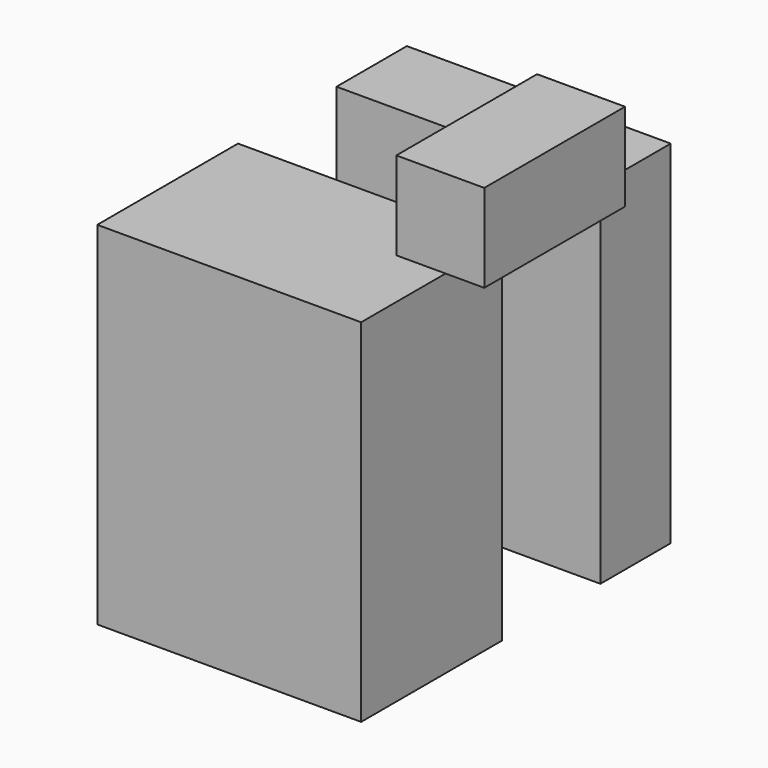
from build123d import *

# Parameters (mm, degrees)
BOX012_W                  = 10
BOX012_H                  = 10
BOX012_DEPTH              = 10
BOX011_W                  = 10
BOX011_H                  = 10
BOX011_DEPTH              = 10
BOX010_W                  = 10
BOX010_H                  = 10
BOX010_DEPTH              = 10
BOX018_W                  = 10
BOX018_H                  = 10
BOX018_DEPTH              = 10
BOX017_W                  = 10
BOX017_H                  = 10
BOX017_DEPTH              = 10
BOX016_W                  = 10
BOX016_H                  = 10
BOX016_DEPTH              = 10
BOX015_W                  = 10
BOX015_H                  = 10
BOX015_DEPTH              = 10
BOX014_W                  = 10
BOX014_H                  = 10
BOX014_DEPTH              = 10
BOX013_W                  = 10
BOX013_H                  = 10
BOX013_DEPTH              = 10
BOX008_W                  = 10
BOX008_H                  = 10
BOX008_DEPTH              = 10
BOX009_W                  = 10
BOX009_H                  = 10
BOX009_DEPTH              = 10
BOX007_W                  = 10
BOX007_H                  = 10
BOX007_DEPTH              = 10
BOX020_W                  = 10
BOX020_H                  = 10
BOX020_DEPTH              = 10
BOX019_W                  = 10
BOX019_H                  = 10
BOX019_DEPTH              = 10
FUSION007_PITCH_ANGLE     = 90
FUSION007_PLACEMENT_ANGLE = -90
BOX024_W                  = 10
BOX024_H                  = 10
BOX024_DEPTH              = 10
BOX026_W                  = 10
BOX026_H                  = 10
BOX026_DEPTH              = 10
BOX023_W                  = 10
BOX023_H                  = 10
BOX023_DEPTH              = 10
BOX032_W                  = 10
BOX032_H                  = 10
BOX032_DEPTH              = 10
BOX030_W                  = 10
BOX030_H                  = 10
BOX030_DEPTH              = 10
BOX031_W                  = 10
BOX031_H                  = 10
BOX031_DEPTH              = 10
BOX029_W                  = 10
BOX029_H                  = 10
BOX029_DEPTH              = 10
BOX027_W                  = 10
BOX027_H                  = 10
BOX027_DEPTH              = 10
BOX028_W                  = 10
BOX028_H                  = 10
BOX028_DEPTH              = 10
BOX025_W                  = 10
BOX025_H                  = 10
BOX025_DEPTH              = 10
BOX021_W                  = 10
BOX021_H                  = 10
BOX021_DEPTH              = 10
BOX022_W                  = 10
BOX022_H                  = 10
BOX022_DEPTH              = 10
BOX044_W                  = 10
BOX044_H                  = 10
BOX044_DEPTH              = 10
BOX037_W                  = 10
BOX037_H                  = 10
BOX037_DEPTH              = 10
BOX035_W                  = 10
BOX035_H                  = 10
BOX035_DEPTH              = 10
BOX039_W                  = 10
BOX039_H                  = 10
BOX039_DEPTH              = 10
BOX042_W                  = 10
BOX042_H                  = 10
BOX042_DEPTH              = 10
BOX036_W                  = 10
BOX036_H                  = 10
BOX036_DEPTH              = 10
BOX034_W                  = 10
BOX034_H                  = 10
BOX034_DEPTH              = 10
BOX033_W                  = 10
BOX033_H                  = 10
BOX033_DEPTH              = 10
BOX040_W                  = 10
BOX040_H                  = 10
BOX040_DEPTH              = 10
BOX041_W                  = 10
BOX041_H                  = 10
BOX041_DEPTH              = 10
BOX043_W                  = 10
BOX043_H                  = 10
BOX043_DEPTH              = 10
BOX038_W                  = 10
BOX038_H                  = 10
BOX038_DEPTH              = 10


with BuildPart() as cube012:
    # Box012 → Box012 (new body)
    with BuildSketch(Plane(origin=(24, 0, 30), x_dir=(1, 0, 0), z_dir=(0, 0, 1))):
        with Locations((5, 5)):
            Rectangle(BOX012_W, BOX012_H)
    extrude(amount=BOX012_DEPTH)


with BuildPart() as cube011:
    # Box011 → Box011 (new body)
    with BuildSketch(Plane(origin=(34, 0, 30), x_dir=(1, 0, 0), z_dir=(0, 0, 1))):
        with Locations((5, 5)):
            Rectangle(BOX011_W, BOX011_H)
    extrude(amount=BOX011_DEPTH)


with BuildPart() as fusion003:
    # Box010 → Box010 (new body)
    with BuildSketch(Plane(origin=(14, 0, 30), x_dir=(1, 0, 0), z_dir=(0, 0, 1))):
        with Locations((5, 5)):
            Rectangle(BOX010_W, BOX010_H)
    extrude(amount=BOX010_DEPTH)

    # Fusion003: union Cube012, Cube011
    add(cube012.part)
    add(cube011.part)


with BuildPart() as fusion003_1:
    # Fusion003 placement: moved
    add(fusion003.part.moved(Location((0, 0, -10))))


with BuildPart() as cube018:
    # Box018 → Box018 (new body)
    with BuildSketch(Plane(origin=(24, 0, 30), x_dir=(1, 0, 0), z_dir=(0, 0, 1))):
        with Locations((5, 5)):
            Rectangle(BOX018_W, BOX018_H)
    extrude(amount=BOX018_DEPTH)


with BuildPart() as cube017:
    # Box017 → Box017 (new body)
    with BuildSketch(Plane(origin=(34, 0, 30), x_dir=(1, 0, 0), z_dir=(0, 0, 1))):
        with Locations((5, 5)):
            Rectangle(BOX017_W, BOX017_H)
    extrude(amount=BOX017_DEPTH)


with BuildPart() as fusion005:
    # Box016 → Box016 (new body)
    with BuildSketch(Plane(origin=(14, 0, 30), x_dir=(1, 0, 0), z_dir=(0, 0, 1))):
        with Locations((5, 5)):
            Rectangle(BOX016_W, BOX016_H)
    extrude(amount=BOX016_DEPTH)

    # Fusion005: union Cube018, Cube017
    add(cube018.part)
    add(cube017.part)


with BuildPart() as fusion005_1:
    # Fusion005 placement: moved
    add(fusion005.part.moved(Location((0, 0, -30))))


with BuildPart() as cube015:
    # Box015 → Box015 (new body)
    with BuildSketch(Plane(origin=(24, 0, 30), x_dir=(1, 0, 0), z_dir=(0, 0, 1))):
        with Locations((5, 5)):
            Rectangle(BOX015_W, BOX015_H)
    extrude(amount=BOX015_DEPTH)


with BuildPart() as cube014:
    # Box014 → Box014 (new body)
    with BuildSketch(Plane(origin=(34, 0, 30), x_dir=(1, 0, 0), z_dir=(0, 0, 1))):
        with Locations((5, 5)):
            Rectangle(BOX014_W, BOX014_H)
    extrude(amount=BOX014_DEPTH)


with BuildPart() as fusion004:
    # Box013 → Box013 (new body)
    with BuildSketch(Plane(origin=(14, 0, 30), x_dir=(1, 0, 0), z_dir=(0, 0, 1))):
        with Locations((5, 5)):
            Rectangle(BOX013_W, BOX013_H)
    extrude(amount=BOX013_DEPTH)

    # Fusion004: union Cube015, Cube014
    add(cube015.part)
    add(cube014.part)


with BuildPart() as fusion004_1:
    # Fusion004 placement: moved
    add(fusion004.part.moved(Location((0, 0, -20))))


with BuildPart() as cube008:
    # Box008 → Box008 (new body)
    with BuildSketch(Plane(origin=(24, 0, 30), x_dir=(1, 0, 0), z_dir=(0, 0, 1))):
        with Locations((5, 5)):
            Rectangle(BOX008_W, BOX008_H)
    extrude(amount=BOX008_DEPTH)


with BuildPart() as cube009:
    # Box009 → Box009 (new body)
    with BuildSketch(Plane(origin=(34, 0, 30), x_dir=(1, 0, 0), z_dir=(0, 0, 1))):
        with Locations((5, 5)):
            Rectangle(BOX009_W, BOX009_H)
    extrude(amount=BOX009_DEPTH)


with BuildPart() as mode12:
    # Box007 → Box007 (new body)
    with BuildSketch(Plane(origin=(14, 0, 30), x_dir=(1, 0, 0), z_dir=(0, 0, 1))):
        with Locations((5, 5)):
            Rectangle(BOX007_W, BOX007_H)
    extrude(amount=BOX007_DEPTH)

    # Fusion002: union Cube008, Cube009
    add(cube008.part)
    add(cube009.part)

    # Fusion006: union Fusion003, Fusion005, Fusion004
    add(fusion003_1.part)
    add(fusion005_1.part)
    add(fusion004_1.part)


with BuildPart() as mode12_1:
    # Fusion006 placement: moved
    add(mode12.part.moved(Location((0, 10, 0))))


with BuildPart() as cube020:
    # Box020 → Box020 (new body)
    with BuildSketch(Plane(origin=(28, 0, 0), x_dir=(1, 0, 0), z_dir=(0, 0, 1))):
        with Locations((5, 5)):
            Rectangle(BOX020_W, BOX020_H)
    extrude(amount=BOX020_DEPTH)


with BuildPart() as fusion007:
    # Box019 → Box019 (new body)
    with BuildSketch(Plane(origin=(28, 0, 10), x_dir=(1, 0, 0), z_dir=(0, 0, 1))):
        with Locations((5, 5)):
            Rectangle(BOX019_W, BOX019_H)
    extrude(amount=BOX019_DEPTH)

    # Fusion007: union Cube020
    add(cube020.part)


with BuildPart() as fusion007_1:
    # Fusion007 pitch: moved
    add(fusion007.part.rotate(Axis((0, 0, 0), (0, 1, 0)), FUSION007_PITCH_ANGLE))


with BuildPart() as fusion007_2:
    # Fusion007 placement: moved
    add(fusion007_1.part.moved(Location((48, -4, 86))).rotate(Axis((48, -4, 86), (0, 0, 1)), FUSION007_PLACEMENT_ANGLE))


with BuildPart() as cube024:
    # Box024 → Box024 (new body)
    with BuildSketch(Plane(origin=(24, 0, 30), x_dir=(1, 0, 0), z_dir=(0, 0, 1))):
        with Locations((5, 5)):
            Rectangle(BOX024_W, BOX024_H)
    extrude(amount=BOX024_DEPTH)


with BuildPart() as cube026:
    # Box026 → Box026 (new body)
    with BuildSketch(Plane(origin=(34, 0, 30), x_dir=(1, 0, 0), z_dir=(0, 0, 1))):
        with Locations((5, 5)):
            Rectangle(BOX026_W, BOX026_H)
    extrude(amount=BOX026_DEPTH)


with BuildPart() as fusion011:
    # Box023 → Box023 (new body)
    with BuildSketch(Plane(origin=(14, 0, 30), x_dir=(1, 0, 0), z_dir=(0, 0, 1))):
        with Locations((5, 5)):
            Rectangle(BOX023_W, BOX023_H)
    extrude(amount=BOX023_DEPTH)

    # Fusion011: union Cube024, Cube026
    add(cube024.part)
    add(cube026.part)


with BuildPart() as fusion011_1:
    # Fusion011 placement: moved
    add(fusion011.part.moved(Location((0, 0, -10))))


with BuildPart() as cube032:
    # Box032 → Box032 (new body)
    with BuildSketch(Plane(origin=(24, 0, 30), x_dir=(1, 0, 0), z_dir=(0, 0, 1))):
        with Locations((5, 5)):
            Rectangle(BOX032_W, BOX032_H)
    extrude(amount=BOX032_DEPTH)


with BuildPart() as cube030:
    # Box030 → Box030 (new body)
    with BuildSketch(Plane(origin=(34, 0, 30), x_dir=(1, 0, 0), z_dir=(0, 0, 1))):
        with Locations((5, 5)):
            Rectangle(BOX030_W, BOX030_H)
    extrude(amount=BOX030_DEPTH)


with BuildPart() as fusion009:
    # Box031 → Box031 (new body)
    with BuildSketch(Plane(origin=(14, 0, 30), x_dir=(1, 0, 0), z_dir=(0, 0, 1))):
        with Locations((5, 5)):
            Rectangle(BOX031_W, BOX031_H)
    extrude(amount=BOX031_DEPTH)

    # Fusion009: union Cube032, Cube030
    add(cube032.part)
    add(cube030.part)


with BuildPart() as fusion009_1:
    # Fusion009 placement: moved
    add(fusion009.part.moved(Location((0, 0, -30))))


with BuildPart() as cube029:
    # Box029 → Box029 (new body)
    with BuildSketch(Plane(origin=(24, 0, 30), x_dir=(1, 0, 0), z_dir=(0, 0, 1))):
        with Locations((5, 5)):
            Rectangle(BOX029_W, BOX029_H)
    extrude(amount=BOX029_DEPTH)


with BuildPart() as cube027:
    # Box027 → Box027 (new body)
    with BuildSketch(Plane(origin=(34, 0, 30), x_dir=(1, 0, 0), z_dir=(0, 0, 1))):
        with Locations((5, 5)):
            Rectangle(BOX027_W, BOX027_H)
    extrude(amount=BOX027_DEPTH)


with BuildPart() as fusion008:
    # Box028 → Box028 (new body)
    with BuildSketch(Plane(origin=(14, 0, 30), x_dir=(1, 0, 0), z_dir=(0, 0, 1))):
        with Locations((5, 5)):
            Rectangle(BOX028_W, BOX028_H)
    extrude(amount=BOX028_DEPTH)

    # Fusion008: union Cube029, Cube027
    add(cube029.part)
    add(cube027.part)


with BuildPart() as fusion008_1:
    # Fusion008 placement: moved
    add(fusion008.part.moved(Location((0, 0, -20))))


with BuildPart() as cube025:
    # Box025 → Box025 (new body)
    with BuildSketch(Plane(origin=(24, 0, 30), x_dir=(1, 0, 0), z_dir=(0, 0, 1))):
        with Locations((5, 5)):
            Rectangle(BOX025_W, BOX025_H)
    extrude(amount=BOX025_DEPTH)


with BuildPart() as cube021:
    # Box021 → Box021 (new body)
    with BuildSketch(Plane(origin=(34, 0, 30), x_dir=(1, 0, 0), z_dir=(0, 0, 1))):
        with Locations((5, 5)):
            Rectangle(BOX021_W, BOX021_H)
    extrude(amount=BOX021_DEPTH)


with BuildPart() as mode013:
    # Box022 → Box022 (new body)
    with BuildSketch(Plane(origin=(14, 0, 30), x_dir=(1, 0, 0), z_dir=(0, 0, 1))):
        with Locations((5, 5)):
            Rectangle(BOX022_W, BOX022_H)
    extrude(amount=BOX022_DEPTH)

    # Fusion012: union Cube025, Cube021
    add(cube025.part)
    add(cube021.part)

    # Fusion010: union Fusion011, Fusion009, Fusion008
    add(fusion011_1.part)
    add(fusion009_1.part)
    add(fusion008_1.part)


with BuildPart() as mode013_1:
    # Fusion010 placement: moved
    add(mode013.part.moved(Location((0, -14, 0))))


with BuildPart() as cube044:
    # Box044 → Box044 (new body)
    with BuildSketch(Plane(origin=(24, 0, 30), x_dir=(1, 0, 0), z_dir=(0, 0, 1))):
        with Locations((5, 5)):
            Rectangle(BOX044_W, BOX044_H)
    extrude(amount=BOX044_DEPTH)


with BuildPart() as cube037:
    # Box037 → Box037 (new body)
    with BuildSketch(Plane(origin=(34, 0, 30), x_dir=(1, 0, 0), z_dir=(0, 0, 1))):
        with Locations((5, 5)):
            Rectangle(BOX037_W, BOX037_H)
    extrude(amount=BOX037_DEPTH)


with BuildPart() as fusion017:
    # Box035 → Box035 (new body)
    with BuildSketch(Plane(origin=(14, 0, 30), x_dir=(1, 0, 0), z_dir=(0, 0, 1))):
        with Locations((5, 5)):
            Rectangle(BOX035_W, BOX035_H)
    extrude(amount=BOX035_DEPTH)

    # Fusion017: union Cube044, Cube037
    add(cube044.part)
    add(cube037.part)


with BuildPart() as fusion017_1:
    # Fusion017 placement: moved
    add(fusion017.part.moved(Location((0, 0, -10))))


with BuildPart() as cube039:
    # Box039 → Box039 (new body)
    with BuildSketch(Plane(origin=(24, 0, 30), x_dir=(1, 0, 0), z_dir=(0, 0, 1))):
        with Locations((5, 5)):
            Rectangle(BOX039_W, BOX039_H)
    extrude(amount=BOX039_DEPTH)


with BuildPart() as cube042:
    # Box042 → Box042 (new body)
    with BuildSketch(Plane(origin=(34, 0, 30), x_dir=(1, 0, 0), z_dir=(0, 0, 1))):
        with Locations((5, 5)):
            Rectangle(BOX042_W, BOX042_H)
    extrude(amount=BOX042_DEPTH)


with BuildPart() as fusion013:
    # Box036 → Box036 (new body)
    with BuildSketch(Plane(origin=(14, 0, 30), x_dir=(1, 0, 0), z_dir=(0, 0, 1))):
        with Locations((5, 5)):
            Rectangle(BOX036_W, BOX036_H)
    extrude(amount=BOX036_DEPTH)

    # Fusion013: union Cube039, Cube042
    add(cube039.part)
    add(cube042.part)


with BuildPart() as fusion013_1:
    # Fusion013 placement: moved
    add(fusion013.part.moved(Location((0, 0, -30))))


with BuildPart() as cube034:
    # Box034 → Box034 (new body)
    with BuildSketch(Plane(origin=(24, 0, 30), x_dir=(1, 0, 0), z_dir=(0, 0, 1))):
        with Locations((5, 5)):
            Rectangle(BOX034_W, BOX034_H)
    extrude(amount=BOX034_DEPTH)


with BuildPart() as cube033:
    # Box033 → Box033 (new body)
    with BuildSketch(Plane(origin=(34, 0, 30), x_dir=(1, 0, 0), z_dir=(0, 0, 1))):
        with Locations((5, 5)):
            Rectangle(BOX033_W, BOX033_H)
    extrude(amount=BOX033_DEPTH)


with BuildPart() as fusion016:
    # Box040 → Box040 (new body)
    with BuildSketch(Plane(origin=(14, 0, 30), x_dir=(1, 0, 0), z_dir=(0, 0, 1))):
        with Locations((5, 5)):
            Rectangle(BOX040_W, BOX040_H)
    extrude(amount=BOX040_DEPTH)

    # Fusion016: union Cube034, Cube033
    add(cube034.part)
    add(cube033.part)


with BuildPart() as fusion016_1:
    # Fusion016 placement: moved
    add(fusion016.part.moved(Location((0, 0, -20))))


with BuildPart() as cube041:
    # Box041 → Box041 (new body)
    with BuildSketch(Plane(origin=(24, 0, 30), x_dir=(1, 0, 0), z_dir=(0, 0, 1))):
        with Locations((5, 5)):
            Rectangle(BOX041_W, BOX041_H)
    extrude(amount=BOX041_DEPTH)


with BuildPart() as cube043:
    # Box043 → Box043 (new body)
    with BuildSketch(Plane(origin=(34, 0, 30), x_dir=(1, 0, 0), z_dir=(0, 0, 1))):
        with Locations((5, 5)):
            Rectangle(BOX043_W, BOX043_H)
    extrude(amount=BOX043_DEPTH)


with BuildPart() as mode123:
    # Box038 → Box038 (new body)
    with BuildSketch(Plane(origin=(14, 0, 30), x_dir=(1, 0, 0), z_dir=(0, 0, 1))):
        with Locations((5, 5)):
            Rectangle(BOX038_W, BOX038_H)
    extrude(amount=BOX038_DEPTH)

    # Fusion015: union Cube041, Cube043
    add(cube041.part)
    add(cube043.part)

    # Fusion014: union Fusion017, Fusion013, Fusion016
    add(fusion017_1.part)
    add(fusion013_1.part)
    add(fusion016_1.part)


with BuildPart() as mode123_1:
    # Fusion014 placement: moved
    add(mode123.part.moved(Location((0, -24, 0))))

    # Fusion: union Mode013
    add(mode013_1.part)


solid = Compound([mode12_1.part, fusion007_2.part, mode123_1.part])
